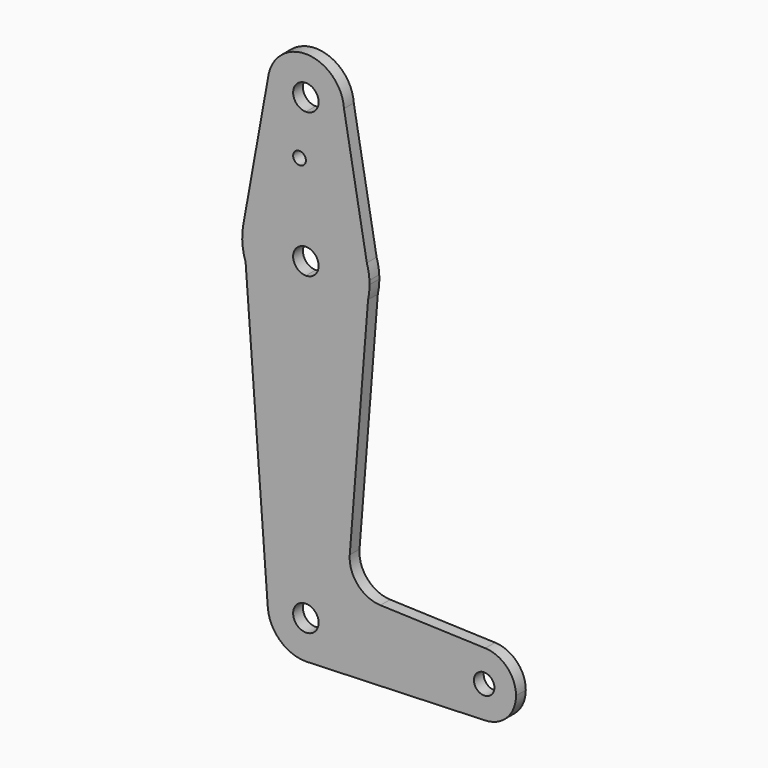
from build123d import *

# Parameters (mm, degrees)
F0_R     = 1.5875
F1_DEPTH = 3.048


with BuildPart() as f1:
    # F0 (on Front) → F1 (new body)
    with BuildSketch(Plane.XZ):
        with BuildLine():
            ThreePointArc((-9.4621760078, 86.6940079437), (-7.1108582173, 79.2645351418), (0, 76.0768311278))
            ThreePointArc((0, 76.0768311278), (6.7351920908, 78.866639037), (9.525, 85.6018311278))
            ThreePointArc((9.525, 85.6018311278), (9.5200673777, 85.9083309209), (9.5052746198, 86.2145132657))
            ThreePointArc((9.5052746198, 86.2145132657), (0.2407138533, 95.1237890063), (-9.4621760078, 86.6940079437))
        make_face()
        with BuildLine():
            ThreePointArc((3.175, 85.6018311278), (2.2450640303, 83.3567670975), (0, 82.4268311278))
            ThreePointArc((0, 82.4268311278), (-2.2450640303, 87.8468951581), (3.175, 85.6018311278))
        make_face(mode=Mode.SUBTRACT)
        with BuildLine():
            ThreePointArc((9.525, 85.6018311278), (6.7351920908, 78.866639037), (0, 76.0768311278))
            Line((0, 76.0768311278), (0, 71.751460433))
            Line((0, 71.751460433), (0, 65.5117482333))
            ThreePointArc((0, 65.5117482333), (9.4674556362, 62.379703494), (15.1991639187, 54.219437528))
            Line((15.1991639187, 54.219437528), (9.5052746198, 86.2145132657))
            ThreePointArc((9.5052746198, 86.2145132657), (9.5200673777, 85.9083309209), (9.525, 85.6018311278))
        make_face()
        with BuildLine():
            Line((0, 71.751460433), (0, 76.0768311278))
            ThreePointArc((0, 76.0768311278), (-7.1108582173, 79.2645351418), (-9.4621760078, 86.6940079437))
            Line((-9.4621760078, 86.6940079437), (-15.6240977856, 52.4480101184))
            ThreePointArc((-15.6240977856, 52.4480101184), (-10.1829966752, 61.8155085854), (0, 65.5117482333))
            Line((0, 65.5117482333), (0, 71.751460433))
        make_face()
        with Locations((-1.5875, 71.751460433)):
            Circle(F0_R, mode=Mode.SUBTRACT)
        with BuildLine():
            ThreePointArc((15.1991639187, 54.219437528), (9.4674556362, 62.379703494), (0, 65.5117482333))
            Line((0, 65.5117482333), (0, 52.8117482333))
            ThreePointArc((0, 52.8117482333), (2.2450640303, 51.8818122636), (3.175, 49.6367482333))
            ThreePointArc((3.175, 49.6367482333), (2.2450640303, 47.3916842031), (0, 46.4617482333))
            Line((0, 46.4617482333), (0, 33.7617482333))
            ThreePointArc((0, 33.7617482333), (9.9388154089, 37.2579125341), (15.4999638415, 46.2064791603))
            Line((15.4999638415, 46.2064791603), (15.8470071684, 50.579079813))
            Line((15.8470071684, 50.579079813), (15.1991639187, 54.219437528))
        make_face()
        with BuildLine():
            Line((0, 52.8117482333), (0, 65.5117482333))
            ThreePointArc((0, 65.5117482333), (-10.1829966752, 61.8155085854), (-15.6240977856, 52.4480101184))
            Line((-15.6240977856, 52.4480101184), (-15.0316692218, 44.5314034451))
            ThreePointArc((-15.0316692218, 44.5314034451), (-9.2457632591, 36.7320403034), (0, 33.7617482333))
            Line((0, 33.7617482333), (0, 46.4617482333))
            ThreePointArc((0, 46.4617482333), (-3.175, 49.6367482333), (0, 52.8117482333))
        make_face()
        with BuildLine():
            Line((-15.0316692218, 44.5314034451), (-15.6240977856, 52.4480101184))
            ThreePointArc((-15.6240977856, 52.4480101184), (-15.8307352327, 48.4520765521), (-15.0316692218, 44.5314034451))
        make_face()
        with BuildLine():
            ThreePointArc((15.8470071684, 50.579079813), (15.6294349183, 52.4181847569), (15.1991639187, 54.219437528))
            Line((15.1991639187, 54.219437528), (15.8470071684, 50.579079813))
        make_face()
        with BuildLine():
            ThreePointArc((0, 33.7617482333), (-9.2457632591, 36.7320403034), (-15.0316692218, 44.5314034451))
            Line((-15.0316692218, 44.5314034451), (-9.4984411396, -29.408971881))
            ThreePointArc((-9.4984411396, -29.408971881), (-6.9819776446, -22.2191555854), (0, -19.1731688722))
            Line((0, -19.1731688722), (0, 33.7617482333))
        make_face()
        with BuildLine():
            ThreePointArc((15.875, 49.6367482333), (15.8680002489, 50.1081218656), (15.8470071684, 50.579079813))
            Line((15.8470071684, 50.579079813), (15.4999638415, 46.2064791603))
            ThreePointArc((15.4999638415, 46.2064791603), (15.7809624387, 47.9113933399), (15.875, 49.6367482333))
        make_face()
        with BuildLine():
            ThreePointArc((15.4999638415, 46.2064791603), (9.9388154089, 37.2579125341), (0, 33.7617482333))
            Line((0, 33.7617482333), (0, -19.1731688722))
            ThreePointArc((0, -19.1731688722), (6.7351920908, -21.9629767814), (9.525, -28.6981688722))
            Line((9.525, -28.6981688722), (36.5125, -28.6981688722))
            ThreePointArc((36.5125, -28.6981688722), (38.9380895153, -22.9865360883), (44.7324052746, -20.7656942576))
            Line((44.7324052746, -20.7656942576), (18.5813607127, -19.8346868132))
            ThreePointArc((18.5813607127, -19.8346868132), (12.9293631671, -17.1794332917), (10.9389402397, -11.2605090575))
            Line((10.9389402397, -11.2605090575), (15.4999638415, 46.2064791603))
        make_face()
        with BuildLine():
            ThreePointArc((0, -19.1731688722), (-6.9819776446, -22.2191555854), (-9.4984411396, -29.408971881))
            ThreePointArc((-9.4984411396, -29.408971881), (-6.4790132868, -35.6801465168), (0, -38.2231688722))
            Line((0, -38.2231688722), (0.6773435479, -38.1990546582))
            ThreePointArc((0.6773435479, -38.1990546582), (6.9705567315, -35.1894679605), (9.525, -28.6981688722))
            Line((9.525, -28.6981688722), (3.175, -28.6981688722))
            ThreePointArc((3.175, -28.6981688722), (-2.2450640303, -30.9432329025), (0, -25.5231688722))
            Line((0, -25.5231688722), (0, -19.1731688722))
        make_face()
        with BuildLine():
            Line((0.6773435479, -38.1990546582), (0, -38.2231688722))
            ThreePointArc((0, -38.2231688722), (0.3388863295, -38.2171384097), (0.6773435479, -38.1990546582))
        make_face()
        with BuildLine():
            Line((36.5125, -28.6981688722), (9.525, -28.6981688722))
            ThreePointArc((9.525, -28.6981688722), (6.9705567315, -35.1894679605), (0.6773435479, -38.1990546582))
            Line((0.6773435479, -38.1990546582), (44.7324052746, -36.6306434868))
            ThreePointArc((44.7324052746, -36.6306434868), (38.9380895153, -34.4098016561), (36.5125, -28.6981688722))
        make_face()
        with BuildLine():
            ThreePointArc((44.7324052746, -20.7656942576), (38.9380895153, -22.9865360883), (36.5125, -28.6981688722))
            ThreePointArc((36.5125, -28.6981688722), (38.9380895153, -34.4098016561), (44.7324052746, -36.6306434868))
            ThreePointArc((44.7324052746, -36.6306434868), (50.1616327839, -34.2100793569), (52.3875, -28.6981688722))
            ThreePointArc((52.3875, -28.6981688722), (50.1616327839, -23.1862583875), (44.7324052746, -20.7656942576))
        make_face()
        with BuildLine():
            ThreePointArc((47.0039307837, -28.6981688722), (44.45, -31.2520996559), (41.8960692163, -28.6981688722))
            ThreePointArc((41.8960692163, -28.6981688722), (44.45, -26.1442380885), (47.0039307837, -28.6981688722))
        make_face(mode=Mode.SUBTRACT)
        with BuildLine():
            ThreePointArc((9.525, -28.6981688722), (6.7351920908, -21.9629767814), (0, -19.1731688722))
            Line((0, -19.1731688722), (0, -25.5231688722))
            ThreePointArc((0, -25.5231688722), (2.2450640303, -26.4531048419), (3.175, -28.6981688722))
            Line((3.175, -28.6981688722), (9.525, -28.6981688722))
        make_face()
    extrude(amount=F1_DEPTH)


solid = f1.part
